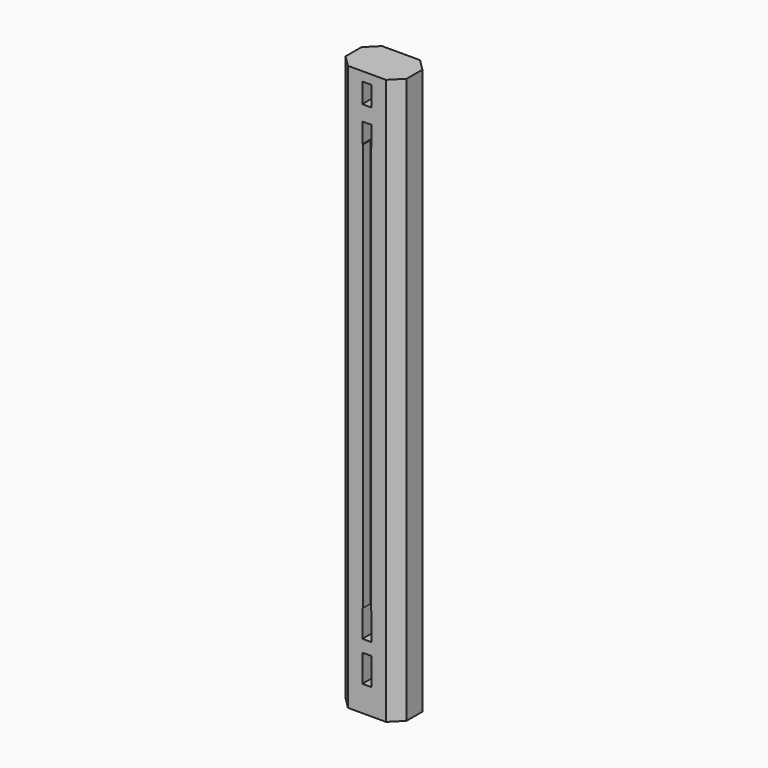
from build123d import *

# Parameters (mm, degrees)
F0_W     = 63.5
F0_H     = 44.45
F1_DEPTH = 588.9625
F3_DEPTH = 25.4
F2_W     = 7.9375
F2_H     = 425.45
F4_DEPTH = 9.525
F6_DEPTH = 9.525
F5_W     = 9.525
F5_H     = 20.7645
F5_H_2   = 28.575
F7_DEPTH = 44.451
F8_SIZE  = 11.90625


with BuildPart() as f1:
    # F0 (on Top) → F1 (new body)
    with BuildSketch(Plane.XY):
        with Locations((31.75, 22.225)):
            Rectangle(F0_W, F0_H)
    extrude(amount=F1_DEPTH)

    # F2 (on face) → F3 (cut)
    with BuildSketch(Plane(origin=(0, 0, 0), x_dir=(0, -1, 0), z_dir=(-1, 0, 0))):
        Polygon((-17.4625, 579.4375), (-26.9875, 579.4375), (-26.9875, 522.2875), (-26.19375, 522.2875), (-18.25625, 522.2875), (-17.4625, 522.2875), align=None)
        Polygon((-18.25625, 96.8375), (-26.19375, 96.8375), (-26.9875, 96.8375), (-26.9875, 26.9875), (-17.4625, 26.9875), (-17.4625, 96.8375), align=None)
    extrude(amount=-F3_DEPTH, mode=Mode.SUBTRACT)

    # F2 (on face) → F4 (cut)
    with BuildSketch(Plane(origin=(0, 0, 0), x_dir=(0, -1, 0), z_dir=(-1, 0, 0))):
        Polygon((-17.4625, 579.4375), (-26.9875, 579.4375), (-26.9875, 522.2875), (-26.19375, 522.2875), (-18.25625, 522.2875), (-17.4625, 522.2875), align=None)
        with Locations((-22.225, 309.5625)):
            Rectangle(F2_W, F2_H)
        Polygon((-18.25625, 96.8375), (-26.19375, 96.8375), (-26.9875, 96.8375), (-26.9875, 26.9875), (-17.4625, 26.9875), (-17.4625, 96.8375), align=None)
    extrude(amount=-F4_DEPTH, mode=Mode.SUBTRACT)

    # F5 (on face) → F6 (cut)
    with BuildSketch(Plane.XZ):
        Polygon((35.822193, 522.0335), (28.781885, 522.0335), (27.884693, 522.0335), (27.884693, 96.8375), (35.822193, 96.8375), align=None)
    extrude(amount=-F6_DEPTH, mode=Mode.SUBTRACT)

    # F5 (on face) → F7 (cut, through all)
    with BuildSketch(Plane.XZ):
        with Locations((31.75, 569.05525)):
            Rectangle(F5_W, F5_H)
        Polygon((27.884693, 522.0335), (28.781885, 522.0335), (35.822193, 522.0335), (36.5125, 522.0335), (36.5125, 542.798), (26.9875, 542.798), (26.9875, 522.0335), align=None)
        Polygon((35.822193, 96.8375), (27.884693, 96.8375), (26.9875, 96.8375), (26.9875, 68.2625), (36.5125, 68.2625), (36.5125, 96.8375), align=None)
        with Locations((31.75, 41.275)):
            Rectangle(F5_W, F5_H_2)
    extrude(amount=-F7_DEPTH, mode=Mode.SUBTRACT)

    # F8
    f8_edges = [f1.edges().sort_by_distance(p)[0] for p in [
        (63.5, 44.45, 294.48125),
        (0, 44.45, 294.48125),
        (63.5, 0, 294.48125),
        (0, 0, 294.48125),
    ]]
    chamfer(f8_edges, length=F8_SIZE)


solid = f1.part
